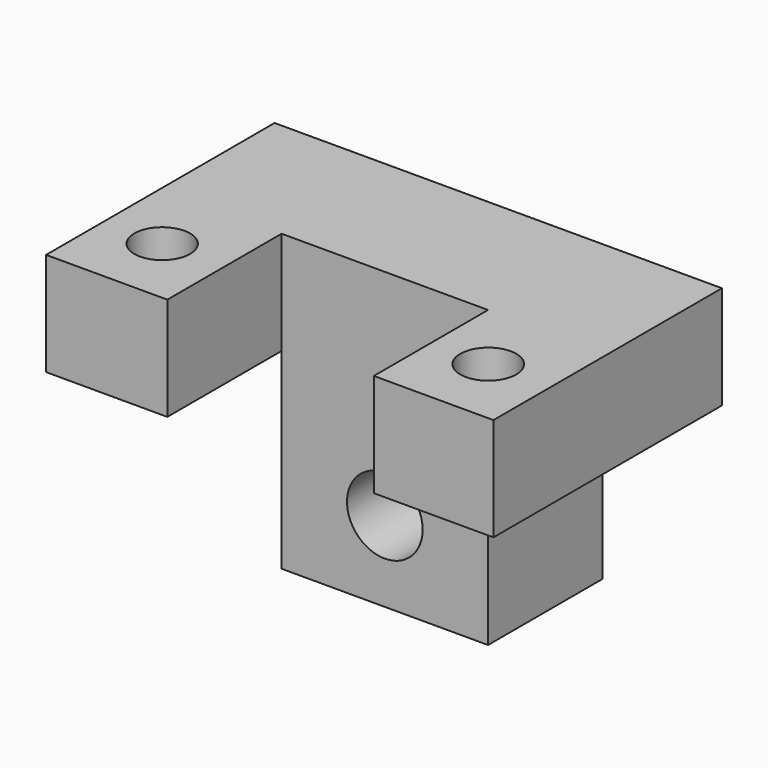
from build123d import *

# Parameters (mm, degrees)
F0_W      = 79.5727856457
F0_H      = 52.4655748159
F1_DEPTH  = 25.4
F2_W      = 21.5691803023
F2_H      = 18.3629509993
F2_W_2    = 21.2777052075
F3_DEPTH  = 25.4
F4_W      = 21.5691803023
F4_H      = 34.1026238166
F4_W_2    = 21.2777052075
F5_DEPTH  = 25.4
F6_R      = 6.7292329965
F7_DEPTH  = 25.4
F8_R      = 4.9554758181
F9_DEPTH  = 25.4
F10_R     = 4.9823414423
F11_DEPTH = 25.4


with BuildPart() as f1:
    # F0 (on Front) → F1 (new body)
    with BuildSketch(Plane.XZ):
        with Locations((11.8047539145, -1.8945904449)):
            Rectangle(F0_W, F0_H)
    extrude(amount=F1_DEPTH)

    # F2 (on face) → F3 (join)
    with BuildSketch(Plane.XZ.offset(25.4)):
        with Locations((-17.1970487572, 15.1567214634)):
            Rectangle(F2_W, F2_H)
        with Locations((40.9522941336, 15.1567214634)):
            Rectangle(F2_W_2, F2_H)
    extrude(amount=F3_DEPTH)

    # F4 (on face) → F5 (cut)
    with BuildSketch(Plane.XZ.offset(25.4)):
        with Locations((-17.1970487572, -11.0760659445)):
            Rectangle(F4_W, F4_H)
        with Locations((40.9522941336, -11.0760659445)):
            Rectangle(F4_W_2, F4_H)
    extrude(amount=-F5_DEPTH, mode=Mode.SUBTRACT)

    # F6 (on face) → F7 (cut)
    with BuildSketch(Plane.XZ.offset(25.4)):
        with Locations((11.9504914619, -13.8450823724)):
            Circle(F6_R)
    extrude(amount=-F7_DEPTH, mode=Mode.SUBTRACT)

    # F8 (on face) → F9 (cut)
    with BuildSketch(Plane(origin=(0, 0, 5.9752459638), x_dir=(1, 0, 0), z_dir=(0, 0, -1))):
        with Locations((-17.4885243177, 38.1)):
            Circle(F8_R)
    extrude(amount=-F9_DEPTH, mode=Mode.SUBTRACT)

    # F10 (on face) → F11 (cut)
    with BuildSketch(Plane(origin=(0, 0, 5.9752459638), x_dir=(1, 0, 0), z_dir=(0, 0, -1))):
        with Locations((40.5150838196, 38.1)):
            Circle(F10_R)
    extrude(amount=-F11_DEPTH, mode=Mode.SUBTRACT)


solid = f1.part
